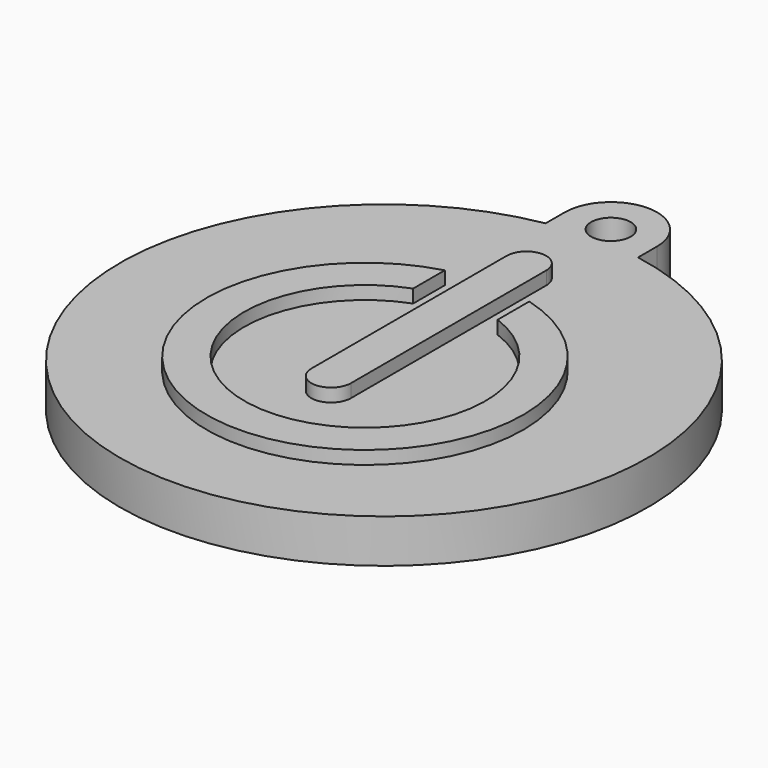
from build123d import *

# Parameters (mm, degrees)
EXTRUDE_DEPTH = 3.3
SKETCH001_R   = 1.5
POCKET_DEPTH  = 3.301
PAD_DEPTH     = 1


with BuildPart() as part:
    # Sketch → Extrude (new body)
    with BuildSketch(Plane.XY):
        with BuildLine():
            ThreePointArc((3.5, 21.5), (0, 25), (-3.5, 21.5))
            Line((-3.5, 21.5), (-3.5, 19.691369))
            ThreePointArc((-3.5, 19.691369), (0, -20), (3.5, 19.691369))
            Line((3.5, 19.691369), (3.5, 21.5))
        make_face()
    extrude(amount=EXTRUDE_DEPTH)

    # Sketch001 → Pocket (cut, through all)
    with BuildSketch(Plane.XY.offset(3.3)):
        with Locations((0, 21.5)):
            Circle(SKETCH001_R)
    extrude(amount=-POCKET_DEPTH, mode=Mode.SUBTRACT)

    # Sketch002 → Pad (new body)
    with BuildSketch(Plane.XY.offset(3.3)):
        with BuildLine():
            ThreePointArc((-3.2, 9.765466), (0, -13.8), (3.2, 9.765466))
            Line((3.2, 9.765466), (3.2, 6.765466))
            ThreePointArc((-3.2, 6.765466), (0, -10.943698), (3.2, 6.765466))
            Line((-3.2, 9.765466), (-3.2, 6.765466))
        make_face()
        with BuildLine():
            ThreePointArc((1.5, 13.5), (0, 15), (-1.5, 13.5))
            Line((-1.5, 13.5), (-1.5, -5))
            ThreePointArc((-1.5, -5), (0, -6.5), (1.5, -5))
            Line((1.5, 13.5), (1.5, -5))
        make_face()
    extrude(amount=PAD_DEPTH)


solid = part.part
